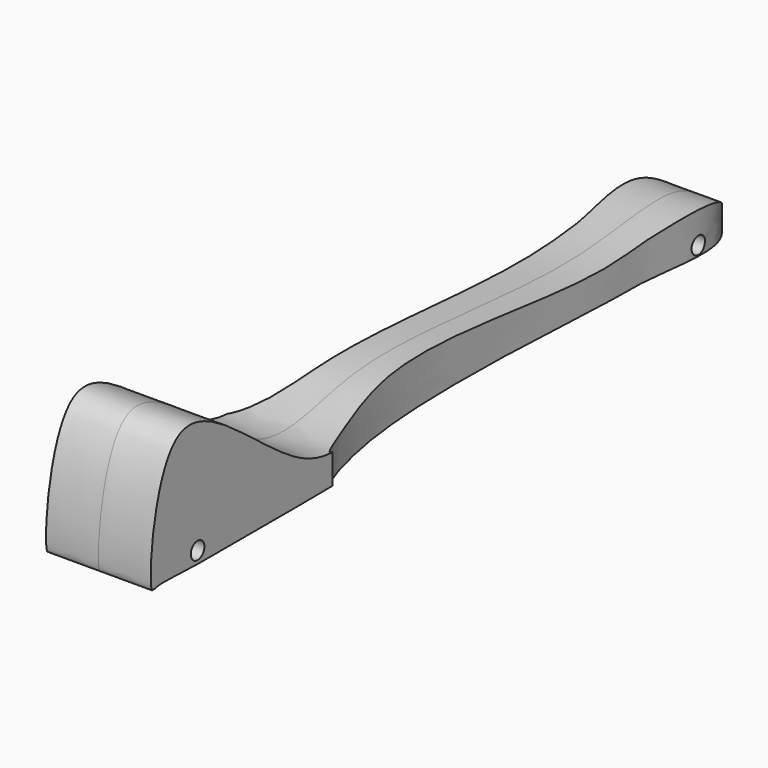
from build123d import *

# Parameters (mm, degrees)
F0_R     = 3.25
F1_DEPTH = 20
F4_DEPTH = 58


with BuildPart() as f1:
    # F0 (on Right) → F1 (new body, symmetric)
    with BuildSketch(Plane.YZ):
        with BuildLine():
            add(Edge.make_bspline(
                [(173.0410452458, -35.7342342287), (172.5736245625, -33.3970278609), (155.9938979714, -12.3594475279), (104.1481571092, -29.8612418873), (-1.3843708906, -9.3798548075), (-46.8942429818, -38.1813046634), (-117.7146537332, 46.1621192363), (-124.0274821574, -32.0207637677), (-121.8973249197, -35.7342342287)],
                knots=[0, 0, 0, 0, 0.0651120426, 0.1701399932, 0.3182817949, 0.4195767124, 0.5387499886, 0.6391834081, 0.6391834081, 0.6391834081, 0.6391834081], degree=3))
            Line((-121.8973249197, -35.7342342287), (-120.2359423041, -35.7342342287))
            add(Edge.make_bspline(
                [(-120.2359423041, -35.7342342287), (-117.7727826318, -34.7619485929), (-113.6569699971, -35.4604053052), (-99.6763706207, -35.7342342287)],
                knots=[0.6577851424, 0.6577851424, 0.6577851424, 0.6577851424, 0.7232224825, 0.7232224825, 0.7232224825, 0.7232224825], degree=3))
            Line((-99.6763706207, -35.7342342287), (-51.209924603, -35.7342342287))
            add(Edge.make_bspline(
                [(-51.209924603, -35.7342342287), (21.3116236118, -35.1361069688), (135.4549799142, -33.0076904748), (164.4830107689, -35.7342342287)],
                knots=[0.7746780948, 0.7746780948, 0.7746780948, 0.7746780948, 0.9577812256, 0.9577812256, 0.9577812256, 0.9577812256], degree=3))
            Line((164.4830107689, -35.7342342287), (173.0410452458, -35.7342342287))
        make_face()
        with Locations((-100.1493930817, -31.1314836144)):
            Circle(F0_R, mode=Mode.SUBTRACT)
        with Locations((147.1402943134, -31.1314836144)):
            Circle(F0_R, mode=Mode.SUBTRACT)
    extrude(amount=F1_DEPTH, both=True)

    # F3 (on offset) → F4 (cut)
    with BuildSketch(Plane.XY.offset(-36.4)):
        with BuildLine():
            add(Edge.make_bspline(
                [(0, 172.8961616755), (0, 173.9758865701), (0, 175.0556114647), (0, 176.1353363593)],
                knots=[0, 0, 0, 0, 3.2391746839, 3.2391746839, 3.2391746839, 3.2391746839], degree=3))
            add(Edge.make_bspline(
                [(0, 172.8961616755), (5.1381408678, 168.5458402088), (16.6537089116, 158.7959279057), (10.7935449247, 123.7276756426), (12.6848657029, 107.2282120814), (3.2785289816, 5.0682579825), (18.6321981017, -37.9666322951), (19.7278108597, -35.9407672465), (19.8535658419, -35.7082374394)],
                knots=[0, 0, 0, 0, 0.1418066424, 0.3178161287, 0.455777613, 0.7820510013, 0.9749837045, 1, 1, 1, 1], degree=3))
            add(Edge.make_bspline(
                [(19.8535658419, -35.7082374394), (21.4472177128, -35.7082374394), (23.0408695837, -35.7082374394), (24.6345214546, -35.7082374394)],
                knots=[0, 0, 0, 0, 4.7809556127, 4.7809556127, 4.7809556127, 4.7809556127], degree=3))
            add(Edge.make_bspline(
                [(24.6345214546, -35.7082374394), (23.6549992114, 33.8265622656), (22.6754769683, 103.3613619705), (21.6959547251, 172.8961616755)],
                knots=[0, 0, 0, 0, 208.6250955769, 208.6250955769, 208.6250955769, 208.6250955769], degree=3))
            add(Edge.make_bspline(
                [(21.6959547251, 176.1353363593), (21.6959547251, 175.0556114647), (21.6959547251, 173.9758865701), (21.6959547251, 172.8961616755)],
                knots=[0, 0, 0, 0, 3.2391746839, 3.2391746839, 3.2391746839, 3.2391746839], degree=3))
            add(Edge.make_bspline(
                [(0, 176.1353363593), (7.2319849084, 176.1353363593), (14.4639698168, 176.1353363593), (21.6959547251, 176.1353363593)],
                knots=[0, 0, 0, 0, 21.6959547251, 21.6959547251, 21.6959547251, 21.6959547251], degree=3))
        make_face()
        with BuildLine():
            add(Edge.make_bspline(
                [(0, 172.8961616755), (-1.6096192361, 171.5803530275), (-5.5479592725, 168.3608948091), (-17.4301759654, 157.8092889316), (-11.3362372163, 123.3480403997), (-12.2402597527, 108.2814005336), (-6.8828142572, -2.2031947036), (-16.3138480254, -26.66498133), (-19.8003984988, -35.7082374394)],
                knots=[0, 0, 0, 0, 0.0797125126, 0.1950367966, 0.3654401696, 0.4990038906, 0.8147871945, 1, 1, 1, 1], degree=3))
            add(Edge.make_bspline(
                [(0, 172.8961616755), (0, 173.9758865701), (0, 175.0556114647), (0, 176.1353363593)],
                knots=[0, 0, 0, 0, 3.2391746839, 3.2391746839, 3.2391746839, 3.2391746839], degree=3))
            Line((0, 176.1353363593), (-13.4493261576, 176.1353363593))
            Line((-13.4493261576, 176.1353363593), (-24.2835078388, 176.1353363593))
            Line((-24.2835078388, 176.1353363593), (-24.2835078388, -35.7082374394))
            Line((-24.2835078388, -35.7082374394), (-19.8003984988, -35.7082374394))
        make_face()
    extrude(amount=F4_DEPTH, mode=Mode.SUBTRACT)


solid = f1.part
